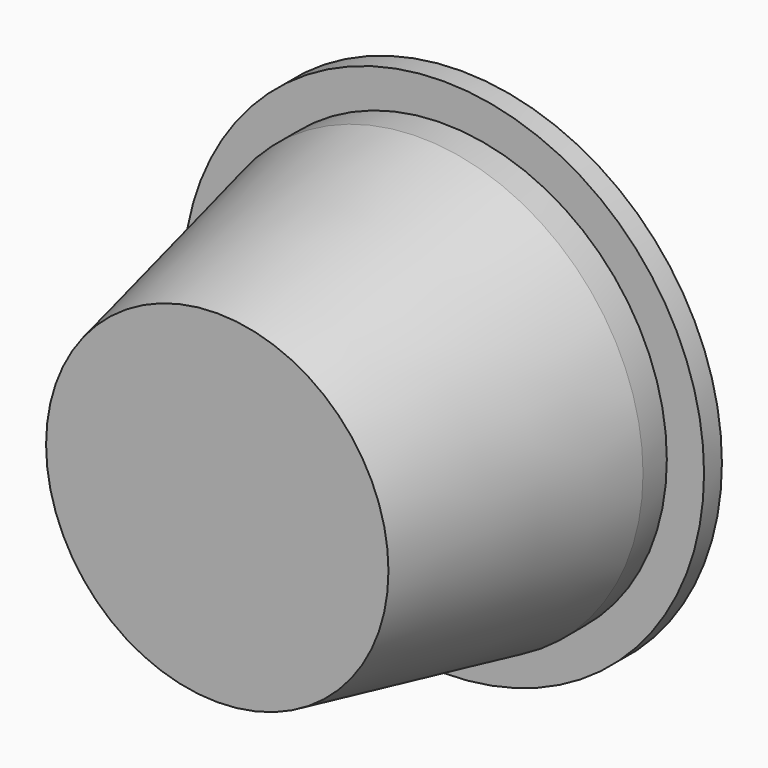
from build123d import *

# Parameters (mm, degrees)
F0_R      = 30
F0_R_2    = 27
F1_DEPTH  = 4
F4_R      = 30
F3_R      = 23
F7_R      = 20
F6_R      = 27
F9_R      = 22.403667
F9_R_2    = 12.693191
F10_DEPTH = 2
F11_R     = 35
F11_R_2   = 27
F12_DEPTH = 3
F13_R     = 16.737404
F14_DEPTH = 2


with BuildPart() as f1:
    # F0 (on Front) → F1 (new body)
    with BuildSketch(Plane.XZ):
        Circle(F0_R)
        Circle(F0_R_2, mode=Mode.SUBTRACT)
    extrude(amount=F1_DEPTH)

    # F4 (on face) → F5 section 0
    with BuildSketch(Plane.XZ.offset(4)):
        Circle(F4_R)
    # F3 (on offset) → F5 section 1
    with BuildSketch(Plane.XZ.offset(38)):
        Circle(F3_R)
    loft()

    # F7 (on face) → F8 section 0
    with BuildSketch(Plane.XZ.offset(38)):
        Circle(F7_R)
    # F6 (on face) → F8 section 1
    with BuildSketch(Plane(origin=(0, -4, 0), x_dir=(-1, 0, 0), z_dir=(0, 1, 0))):
        Circle(F6_R)
    loft(mode=Mode.SUBTRACT)

    # F9 (on face) → F10 (join)
    with BuildSketch(Plane.XZ.offset(38)):
        Circle(F9_R)
        Circle(F9_R_2, mode=Mode.SUBTRACT)
    extrude(amount=-F10_DEPTH)

    # F11 (on face) → F12 (join)
    with BuildSketch(Plane(origin=(0, 0, 0), x_dir=(-1, 0, 0), z_dir=(0, 1, 0))):
        Circle(F11_R)
        Circle(F11_R_2, mode=Mode.SUBTRACT)
    extrude(amount=F12_DEPTH)

    # F13 (on face) → F14 (join)
    with BuildSketch(Plane.XZ.offset(38)):
        Circle(F13_R)
    extrude(amount=-F14_DEPTH)


solid = f1.part
